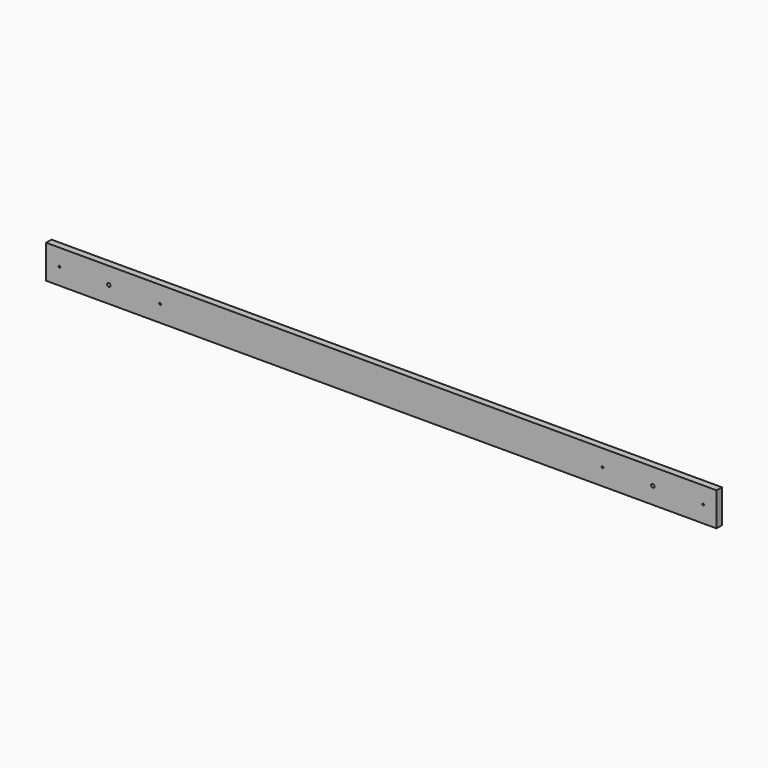
from build123d import *

# Parameters (mm, degrees)
F0_W     = 40
F0_H     = 200
F1_DEPTH = 2000
F3_D     = 11
F5_D     = 20


with BuildPart() as f1:
    # F0 (on Right) → F1 (new body, symmetric)
    with BuildSketch(Plane.YZ):
        Rectangle(F0_W, F0_H)
    extrude(amount=F1_DEPTH, both=True)

    # F3 (through all)
    with Locations(Plane.XZ.offset(20)):
        with Locations((-1920, 0), (-1320, 0), (1320, 0), (1920, 0)):
            Hole(F3_D / 2)

    # F5 (through all)
    with Locations(Plane(origin=(0, 20, 0), x_dir=(-1, 0, 0), z_dir=(0, 1, 0))):
        with Locations((1625.5, 0), (-1620, 0)):
            Hole(F5_D / 2)


solid = f1.part
